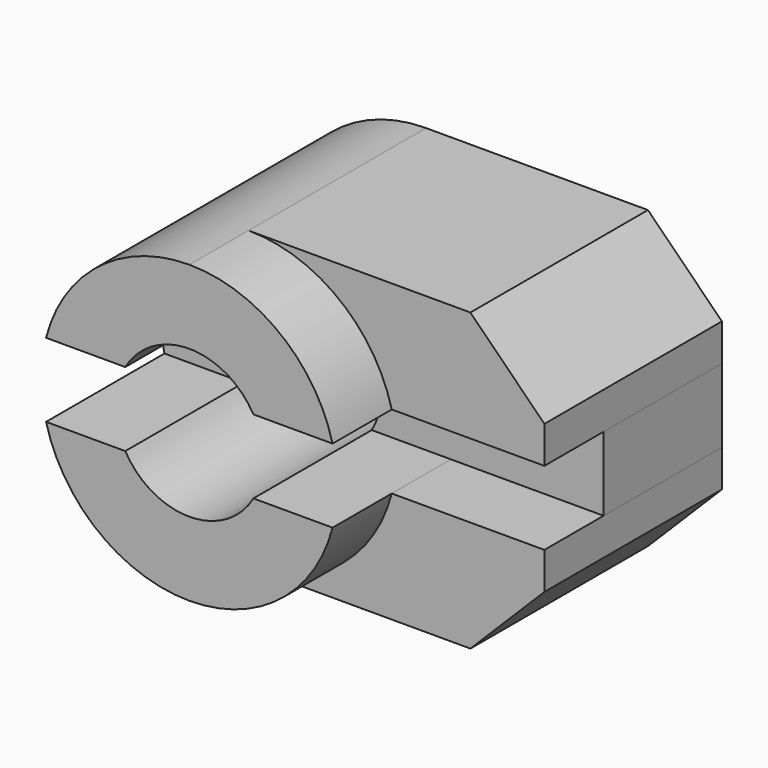
from build123d import *

# Parameters (mm, degrees)
F1_DEPTH = 15
F2_DEPTH = 20
F3_DEPTH = 10


with BuildPart() as f1:
    # F0 (on Front) → F1 (new body)
    with BuildSketch(Plane.XZ):
        with BuildLine():
            ThreePointArc((0, 10), (6.123724, 7.905694), (9.682458, 2.5))
            Line((9.682458, 2.5), (20, 2.5))
            Line((20, 2.5), (20, 5))
            Line((20, 5), (15, 10))
            Line((15, 10), (0, 10))
        make_face()
        with BuildLine():
            Line((20, -2.5), (9.682458, -2.5))
            ThreePointArc((9.682458, -2.5), (6.123724, -7.905694), (0, -10))
            Line((0, -10), (15, -10))
            Line((15, -10), (20, -5))
            Line((20, -5), (20, -2.5))
        make_face()
    extrude(amount=F1_DEPTH)


with BuildPart() as f2:
    # F0 (on Front) → F2 (new body)
    with BuildSketch(Plane.XZ):
        with BuildLine():
            ThreePointArc((-4.330127, 2.5), (0, 5), (4.330127, 2.5))
            Line((4.330127, 2.5), (9.682458, 2.5))
            ThreePointArc((9.682458, 2.5), (6.123724, 7.905694), (0, 10))
            ThreePointArc((0, 10), (-6.123724, 7.905694), (-9.682458, 2.5))
            Line((-9.682458, 2.5), (-4.330127, 2.5))
        make_face()
        with BuildLine():
            Line((9.682458, -2.5), (4.330127, -2.5))
            ThreePointArc((4.330127, -2.5), (0, -5), (-4.330127, -2.5))
            Line((-4.330127, -2.5), (-9.682458, -2.5))
            ThreePointArc((-9.682458, -2.5), (-6.123724, -7.905694), (0, -10))
            ThreePointArc((0, -10), (6.123724, -7.905694), (9.682458, -2.5))
        make_face()
    extrude(amount=F2_DEPTH)


with BuildPart() as f3:
    # F0 (on Front) → F3 (new body)
    with BuildSketch(Plane.XZ):
        with BuildLine():
            ThreePointArc((4.330127, 2.5), (4.829629, 1.294095), (5, 0))
            ThreePointArc((5, 0), (4.829629, -1.294095), (4.330127, -2.5))
            Line((4.330127, -2.5), (9.682458, -2.5))
            Line((9.682458, -2.5), (20, -2.5))
            Line((20, -2.5), (20, 2.5))
            Line((20, 2.5), (9.682458, 2.5))
            Line((9.682458, 2.5), (4.330127, 2.5))
        make_face()
        with BuildLine():
            ThreePointArc((-4.330127, -2.5), (-5, 0), (-4.330127, 2.5))
            Line((-4.330127, 2.5), (-9.682458, 2.5))
            ThreePointArc((-9.682458, 2.5), (-10, 0), (-9.682458, -2.5))
            Line((-9.682458, -2.5), (-4.330127, -2.5))
        make_face()
    extrude(amount=F3_DEPTH)


solid = Compound([f1.part, f2.part, f3.part])
